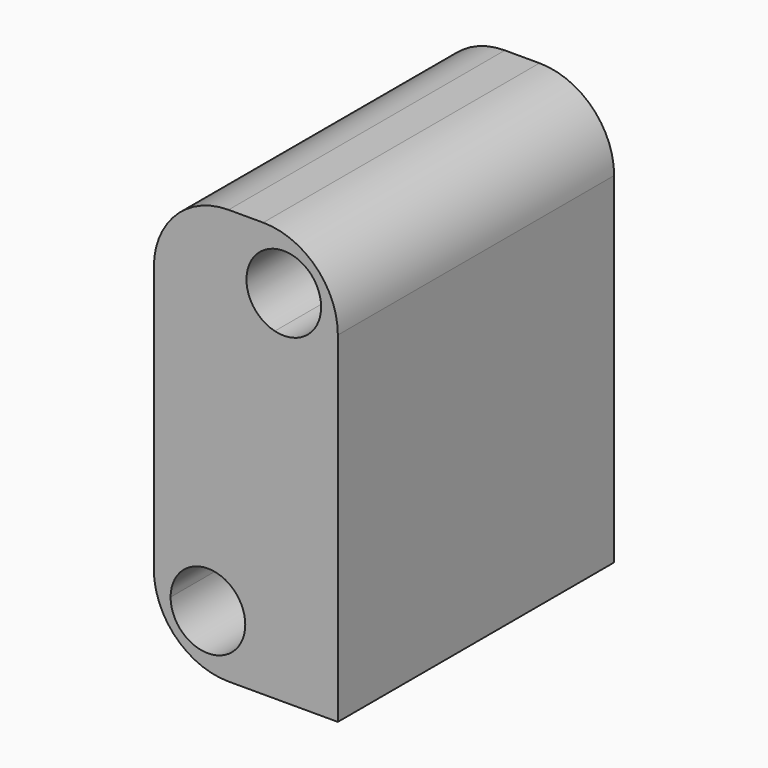
from build123d import *

# Parameters (mm, degrees)
F1_DEPTH = 46.25


with BuildPart() as f1:
    # F0 (on Front) → F1 (new body)
    with BuildSketch(Plane.XZ):
        with BuildLine():
            ThreePointArc((38.958571, 29.182484), (30.880263, 33.122538), (32.748961, 24.331006))
            ThreePointArc((32.748961, 24.331006), (37.036878, 25.242431), (38.958571, 29.182484))
        make_face()
        with BuildLine():
            ThreePointArc((16.559277, -8.999688), (16.643621, -10.295744), (16.895229, -11.569936))
            ThreePointArc((16.895229, -11.569936), (20.464299, -16.927566), (26.559277, -18.999688))
            Line((26.559277, -18.999688), (41.197145, -18.999688))
            Line((41.197145, -18.999688), (41.197145, 6.000312))
            Line((41.197145, 6.000312), (41.197145, 13.000312))
            Line((41.197145, 13.000312), (41.197145, 26.612237))
            ThreePointArc((41.197145, 26.612237), (38.268212, 33.683304), (31.197145, 36.612237))
            Line((31.197145, 36.612237), (26.559277, 36.612237))
            ThreePointArc((26.559277, 36.612237), (19.488209, 33.683304), (16.559277, 26.612237))
            Line((16.559277, 26.612237), (16.559277, -8.999688))
        make_face()
        with BuildLine():
            ThreePointArc((28.797851, -11.569936), (23.797851, -16.569936), (18.797851, -11.569936))
            ThreePointArc((18.797851, -11.569936), (20.719544, -7.629882), (25.00746, -6.718458))
            ThreePointArc((25.00746, -6.718458), (27.737905, -8.491629), (28.797851, -11.569936))
        make_face(mode=Mode.SUBTRACT)
        with BuildLine():
            ThreePointArc((38.958571, 29.182484), (37.036878, 25.242431), (32.748961, 24.331006))
            ThreePointArc((32.748961, 24.331006), (30.880263, 33.122538), (38.958571, 29.182484))
        make_face(mode=Mode.SUBTRACT)
    extrude(amount=F1_DEPTH)


solid = f1.part
